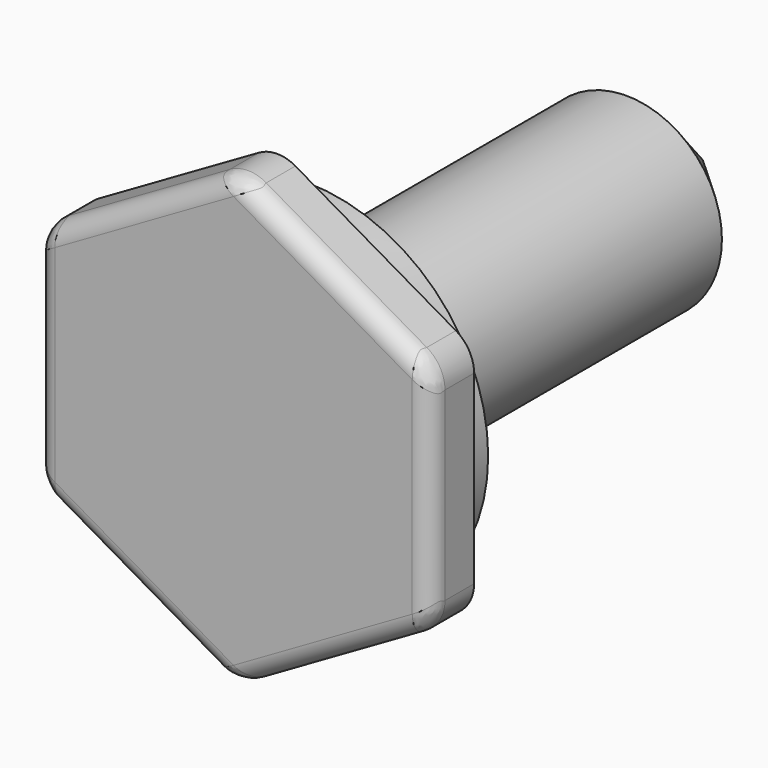
from build123d import *

# Parameters (mm, degrees)
PAD001_DEPTH = 6
SKETCH003_R  = 20
PAD002_DEPTH = 4
SKETCH004_R  = 15.9
PAD003_DEPTH = 2
SKETCH005_R  = 10.5
PAD004_DEPTH = 15
SKETCH006_R  = 10.5
PAD005_DEPTH = 37
CHAMFER_SIZE = 10
FILLET002_R  = 2
FILLET003_R  = 4


with BuildPart() as part:
    # Sketch002 → Pad001 (new body)
    with BuildSketch(Plane.XZ):
        Polygon((21.650635, -12.5), (21.650635, 12.5), (0, 25), (-21.650635, 12.5), (-21.650635, -12.5), (0, -25), align=None)
    extrude(amount=PAD001_DEPTH)

    # Sketch003 → Pad002 (join)
    with BuildSketch(Plane.XZ):
        Circle(SKETCH003_R)
    extrude(amount=-PAD002_DEPTH)

    # Sketch004 (on Face10 of Pad002) → Pad003 (join)
    with BuildSketch(Plane(origin=(0, 4, 0), x_dir=(1, 0, 0), z_dir=(0, 1, 0))):
        Circle(SKETCH004_R)
    extrude(amount=PAD003_DEPTH)

    # Sketch005 (on Face12 of Pad003) → Pad004 (join)
    with BuildSketch(Plane(origin=(0, 6, 0), x_dir=(1, 0, 0), z_dir=(0, 1, 0))):
        Circle(SKETCH005_R)
    extrude(amount=PAD004_DEPTH)

    # Sketch006 (on Face14 of Pad004) → Pad005 (join)
    with BuildSketch(Plane(origin=(0, 21, 0), x_dir=(1, 0, 0), z_dir=(0, 1, 0))):
        Circle(SKETCH006_R)
    extrude(amount=PAD005_DEPTH)

    # Chamfer
    chamfer_edges = [part.edges().sort_by_distance(p)[0] for p in [
        (-10.5, 58, 0),
    ]]
    chamfer(chamfer_edges, length=CHAMFER_SIZE)

    # Fillet002
    fillet002_edges = [part.edges().sort_by_distance(p)[0] for p in [
        (-10.825318, -6, -18.75),
        (-21.650635, -6, 0),
        (-10.825318, -6, 18.75),
        (10.825318, -6, 18.75),
        (21.650635, -6, 0),
        (10.825318, -6, -18.75),
    ]]
    fillet(fillet002_edges, radius=FILLET002_R)

    # Fillet003
    fillet003_edges = [part.edges().sort_by_distance(p)[0] for p in [
        (0, -2, -25),
        (21.650635, -2, -12.5),
        (21.650635, -2, 12.5),
        (-21.650635, -2, -12.5),
        (-21.650635, -2, 12.5),
        (0, -2, 25),
    ]]
    fillet(fillet003_edges, radius=FILLET003_R)


solid = part.part
